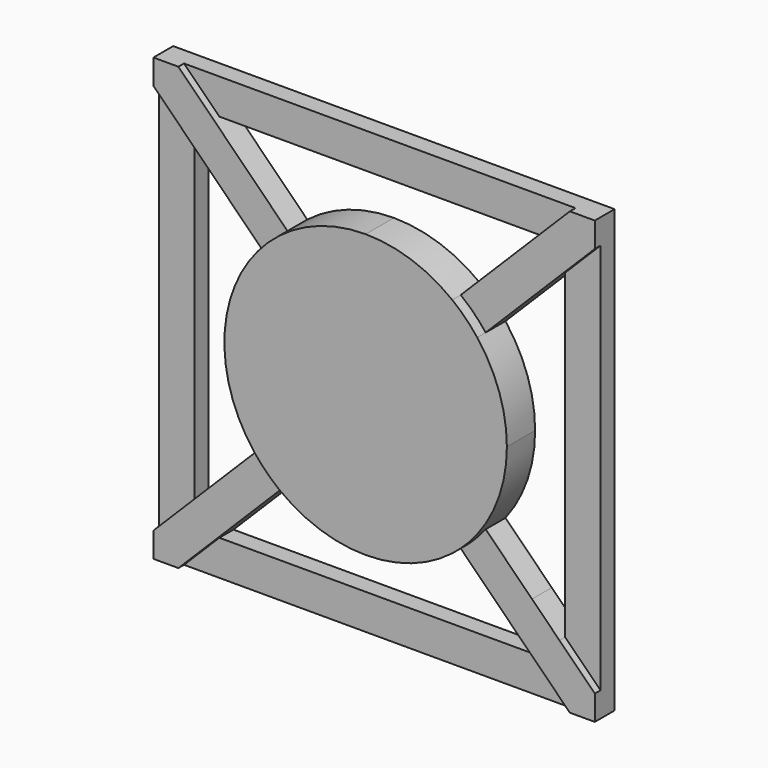
from build123d import *

# Parameters (mm, degrees)
F1_DEPTH = 10
F2_DEPTH = 7
F0_W     = 12.2951196297
F0_H     = 10
F3_DEPTH = 5


with BuildPart() as f1:
    # F0 (on Front) → F1 (new body)
    with BuildSketch(Plane.XZ):
        with BuildLine():
            ThreePointArc((27.7048803703, -28.3328760415), (25.5461182747, -15.3698241684), (19.3028446771, -3.8059795467))
            ThreePointArc((19.3028446771, -3.8059795467), (15.9891516178, -0.0486047941), (12.2317768652, 3.2650882652))
            ThreePointArc((12.2317768652, 3.2650882652), (0.6679322435, 9.5083618628), (-12.2951196297, 11.6671239585))
            ThreePointArc((-12.2951196297, 11.6671239585), (-25.2581715028, 9.5083618628), (-36.8220161245, 3.2650882652))
            ThreePointArc((-36.8220161245, 3.2650882652), (-40.5793860243, -0.0485999413), (-43.8930755201, -3.805968704))
            ThreePointArc((-43.8930755201, -3.805968704), (-52.2951196297, -28.3328691786), (-43.8930839364, -52.8597725364))
            ThreePointArc((-43.8930839364, -52.8597725364), (-40.5793908771, -56.617147289), (-36.8220161245, -59.9308403483))
            ThreePointArc((-36.8220161245, -59.9308403483), (-12.2951196297, -68.3328760415), (12.2317768652, -59.9308403483))
            ThreePointArc((12.2317768652, -59.9308403483), (15.9891516178, -56.617147289), (19.3028446771, -52.8597725364))
            ThreePointArc((19.3028446771, -52.8597725364), (25.5461182747, -41.2959279147), (27.7048803703, -28.3328760415))
        make_face()
    extrude(amount=F1_DEPTH)

    # F0 (on Front) → F2 (join)
    with BuildSketch(Plane.XZ):
        with BuildLine():
            ThreePointArc((-43.8930755201, -3.805968704), (-40.5793860243, -0.0485999413), (-36.8220161245, 3.2650882652))
            Line((-36.8220161245, 3.2650882652), (-40.6279956712, 7.0710678119))
            Line((-40.6279956712, 7.0710678119), (-44.1635295771, 3.5355339059))
            Line((-44.1635295771, 3.5355339059), (-47.6990634831, 0))
            Line((-47.6990634831, 0), (-44.1635295771, -3.5355339059))
            Line((-44.1635295771, -3.5355339059), (-43.8930755201, -3.805968704))
        make_face()
        Polygon((-57.7240518178, 24.1671239585), (-67.7240518178, 34.1671239585), (-74.7951196297, 34.1671239585), (-74.7951196297, 27.0960561466), (-64.7951196297, 17.0960561466), (-47.6990634831, 0), (-44.1635295771, 3.5355339059), (-40.6279956712, 7.0710678119), align=None)
        Polygon((-74.7951196297, -90.8328760415), (-67.7240518178, -90.8328760415), (-57.7240518178, -80.8328760415), (-40.6279956712, -63.7368198949), (-44.1635295771, -60.201285989), (-47.6990634831, -56.6657520831), (-64.7951196297, -73.7618082297), (-74.7951196297, -83.7618082297), align=None)
        with BuildLine():
            Line((-40.6279956712, -63.7368198949), (-36.8220161245, -59.9308403483))
            ThreePointArc((-36.8220161245, -59.9308403483), (-40.5793908771, -56.617147289), (-43.8930839364, -52.8597725364))
            Line((-43.8930839364, -52.8597725364), (-47.6990634831, -56.6657520831))
            Line((-47.6990634831, -56.6657520831), (-44.1635295771, -60.201285989))
            Line((-44.1635295771, -60.201285989), (-40.6279956712, -63.7368198949))
        make_face()
        Polygon((40.2048803703, 17.0960561466), (50.2048803703, 27.0960561466), (50.2048803703, 34.1671239585), (43.1338125585, 34.1671239585), (33.1338125585, 24.1671239585), (24.2192459165, 15.2525573165), (27.7547798224, 11.7170234106), (31.2903137284, 8.1814895046), align=None)
        with BuildLine():
            Line((19.3028446771, -3.8059795467), (31.2903137284, 8.1814895046))
            Line((31.2903137284, 8.1814895046), (27.7547798224, 11.7170234106))
            Line((27.7547798224, 11.7170234106), (24.2192459165, 15.2525573165))
            Line((24.2192459165, 15.2525573165), (12.2317768652, 3.2650882652))
            ThreePointArc((12.2317768652, 3.2650882652), (15.9891516178, -0.0486047941), (19.3028446771, -3.8059795467))
        make_face()
        Polygon((50.2048803703, -90.8328760415), (50.2048803703, -83.7618082297), (40.2048803703, -73.7618082297), (32.423708156, -65.9806360153), (28.88817425, -69.5161699212), (25.3526403441, -73.0517038272), (33.1338125585, -80.8328760415), (43.1338125585, -90.8328760415), align=None)
        with BuildLine():
            Line((28.88817425, -69.5161699212), (32.423708156, -65.9806360153))
            Line((32.423708156, -65.9806360153), (19.3028446771, -52.8597725364))
            ThreePointArc((19.3028446771, -52.8597725364), (15.9891516178, -56.617147289), (12.2317768652, -59.9308403483))
            Line((12.2317768652, -59.9308403483), (25.3526403441, -73.0517038272))
            Line((25.3526403441, -73.0517038272), (28.88817425, -69.5161699212))
        make_face()
    extrude(amount=F2_DEPTH)

    # F0 (on Front) → F3 (join)
    with BuildSketch(Plane.XZ):
        Polygon((50.2048803703, -83.7618082297), (50.2048803703, 0), (40.2048803703, 0), (40.2048803703, -73.7618082297), align=None)
        Polygon((50.2048803703, 0), (50.2048803703, 9.1671239585), (50.2048803703, 27.0960561466), (40.2048803703, 17.0960561466), (40.2048803703, 0), align=None)
        Polygon((33.1338125585, 24.1671239585), (43.1338125585, 34.1671239585), (0, 34.1671239585), (0, 24.1671239585), align=None)
        with Locations((-6.1475598148, 29.1671239585)):
            Rectangle(F0_W, F0_H)
        Polygon((-12.2951196297, 24.1671239585), (-12.2951196297, 34.1671239585), (-67.7240518178, 34.1671239585), (-57.7240518178, 24.1671239585), align=None)
        Polygon((-64.7951196297, 17.0960561466), (-74.7951196297, 27.0960561466), (-74.7951196297, -28.3328760415), (-64.7951196297, -28.3328760415), align=None)
        Polygon((-74.7951196297, -28.3328760415), (-74.7951196297, -83.7618082297), (-64.7951196297, -73.7618082297), (-64.7951196297, -28.3328760415), align=None)
        Polygon((-67.7240518178, -90.8328760415), (0, -90.8328760415), (0, -80.8328760415), (-57.7240518178, -80.8328760415), align=None)
        Polygon((0, -90.8328760415), (43.1338125585, -90.8328760415), (33.1338125585, -80.8328760415), (0, -80.8328760415), align=None)
    extrude(amount=F3_DEPTH)


solid = f1.part
